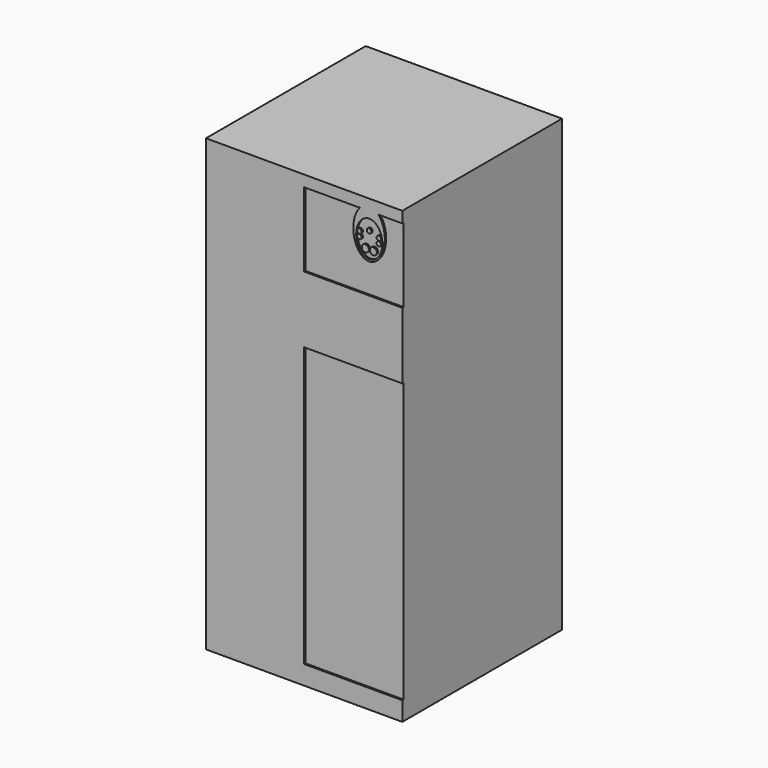
from build123d import *

# Parameters (mm, degrees)
F0_W     = 240
F0_H     = 550
F1_DEPTH = 244
F2_R     = 4.3236508832
F2_R_2   = 2.7917572167
F2_R_3   = 2.8466316253
F2_W     = 120
F2_H     = 340.9582078457
F3_DEPTH = 2


with BuildPart() as f1:
    # F0 (on Front) → F1 (new body)
    with BuildSketch(Plane.XZ):
        Rectangle(F0_W, F0_H)
    extrude(amount=F1_DEPTH)

    # F2 (on face) → F3 (cut)
    with BuildSketch(Plane.XZ.offset(244)):
        with BuildLine():
            add(Edge.make_bspline(
                [(79.6410050243, 253.4012556038), (51.8654523452, 253.4012556038), (65.7532286848, 220.6504156832), (79.6410050243, 187.8995757626), (93.5287813639, 220.6504156832), (107.4165577034, 253.4012556038), (79.6410050243, 253.4012556038)],
                knots=[0, 0, 0, 2.0943951024, 2.0943951024, 4.1887902048, 4.1887902048, 6.2831853072, 6.2831853072, 6.2831853072], degree=2, weights=[1, 0.5, 1, 0.5, 1, 0.5, 1]))
        make_face()
        with Locations((74.7582092881, 219.8281679302)):
            Circle(F2_R, mode=Mode.SUBTRACT)
        with Locations((67.5114076585, 230.0925012678)):
            Circle(F2_R_2, mode=Mode.SUBTRACT)
        with Locations((67.5114076585, 236.0803689808)):
            Circle(F2_R_2, mode=Mode.SUBTRACT)
        with Locations((84.5238007605, 219.8281679302)):
            Circle(F2_R, mode=Mode.SUBTRACT)
        with Locations((79.3632175773, 240.1194535196)):
            Circle(F2_R_3, mode=Mode.SUBTRACT)
        with Locations((91.2150274962, 230.0925012678)):
            Circle(F2_R_2, mode=Mode.SUBTRACT)
        with Locations((91.2150274962, 236.0803689808)):
            Circle(F2_R_2, mode=Mode.SUBTRACT)
        with BuildLine():
            add(Edge.make_bspline(
                [(67.9816982948, 261.3713089377), (20.4125568798, 207.2972971946), (79.3632175773, 207.2972971946), (138.3138782749, 207.2972971946), (90.7447368599, 261.3713089377)],
                knots=[0.6318580764, 0.6318580764, 0.6318580764, 3.1415926536, 3.1415926536, 5.6513272308, 5.6513272308, 5.6513272308], degree=2, weights=[1, 0.3106996636, 1, 0.3106996636, 1]))
            Line((67.9816982948, 261.3713089377), (0, 261.3713089377))
            Line((0, 261.3713089377), (0, 170.5509889871))
            Line((0, 170.5509889871), (120, 170.5509889871))
            Line((120, 170.5509889871), (120, 261.3713089377))
            Line((120, 261.3713089377), (90.7447368599, 261.3713089377))
        make_face()
        with BuildLine():
            add(Edge.make_bspline(
                [(67.9816982948, 261.3713089377), (20.4125568798, 207.2972971946), (79.3632175773, 207.2972971946), (138.3138782749, 207.2972971946), (90.7447368599, 261.3713089377)],
                knots=[0.6318580764, 0.6318580764, 0.6318580764, 3.1415926536, 3.1415926536, 5.6513272308, 5.6513272308, 5.6513272308], degree=2, weights=[1, 0.3106996636, 1, 0.3106996636, 1]))
            Line((67.9816982948, 261.3713089377), (0, 261.3713089377))
            Line((0, 261.3713089377), (0, 170.5509889871))
            Line((0, 170.5509889871), (120, 170.5509889871))
            Line((120, 170.5509889871), (120, 261.3713089377))
            Line((120, 261.3713089377), (90.7447368599, 261.3713089377))
        make_face()
        with Locations((60, -81.2920182943)):
            Rectangle(F2_W, F2_H)
    extrude(amount=-F3_DEPTH, mode=Mode.SUBTRACT)


solid = f1.part
